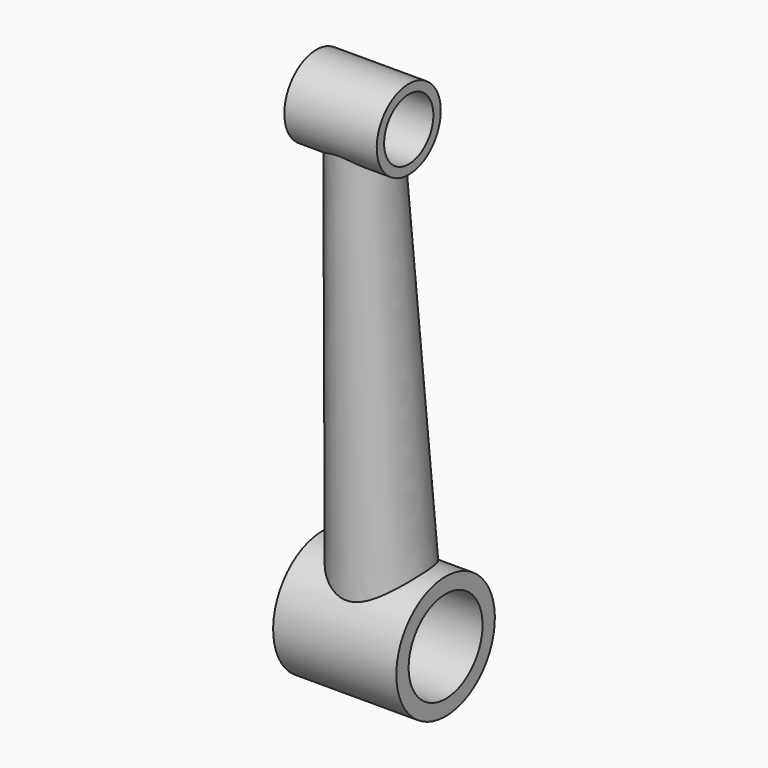
from build123d import *

# Parameters (mm, degrees)
CYLINDER031_R          = 10
CYLINDER031_DEPTH      = 100
CYLINDER032_R          = 15
CYLINDER032_DEPTH      = 100
CYLINDER030_R          = 13
CYLINDER030_DEPTH      = 30
CYLINDER029_R          = 20
CYLINDER029_DEPTH      = 40
CUT016_PLACEMENT_ANGLE = 3.326608


with BuildPart() as cylinder031:
    # Cylinder031 → Cylinder031 (new body)
    with BuildSketch(Plane(origin=(50, 0, 150), x_dir=(0, 0, 1), z_dir=(-1, 0, 0))):
        Circle(CYLINDER031_R)
    extrude(amount=CYLINDER031_DEPTH)


with BuildPart() as compound011:
    # Cylinder032 → Cylinder032 (new body)
    with BuildSketch(Plane.ZY.offset(-50)):
        Circle(CYLINDER032_R)
    extrude(amount=CYLINDER032_DEPTH)

    # Compound011: union Cylinder031
    add(cylinder031.part)


with BuildPart() as cone006:
    # Cone001005 → Cone001005 (revolve)
    with BuildSketch(Plane.XZ):
        Polygon((0, 0), (15, 0), (10, 150), (0, 150), align=None)
    revolve(axis=Axis((0, 0, 0), (0, 0, 1)))


with BuildPart() as cylinder030:
    # Cylinder030 → Cylinder030 (new body)
    with BuildSketch(Plane(origin=(15, 0, 150), x_dir=(0, 0, 1), z_dir=(-1, 0, 0))):
        Circle(CYLINDER030_R)
    extrude(amount=CYLINDER030_DEPTH)


with BuildPart() as crank003:
    # Cylinder029 → Cylinder029 (new body)
    with BuildSketch(Plane.ZY.offset(-20)):
        Circle(CYLINDER029_R)
    extrude(amount=CYLINDER029_DEPTH)

    # Fusion003002003004007: union Cone006, Cylinder030
    add(cone006.part)
    add(cylinder030.part)

    # Cut016: cut Compound011
    add(compound011.part, mode=Mode.SUBTRACT)


with BuildPart() as crank003_1:
    # Cut016 placement: moved
    add(crank003.part.moved(Location((100, 8.704146, -33.900411))).rotate(Axis((100, 8.704146, -33.900411), (1, 0, 0)), CUT016_PLACEMENT_ANGLE))


solid = crank003_1.part
